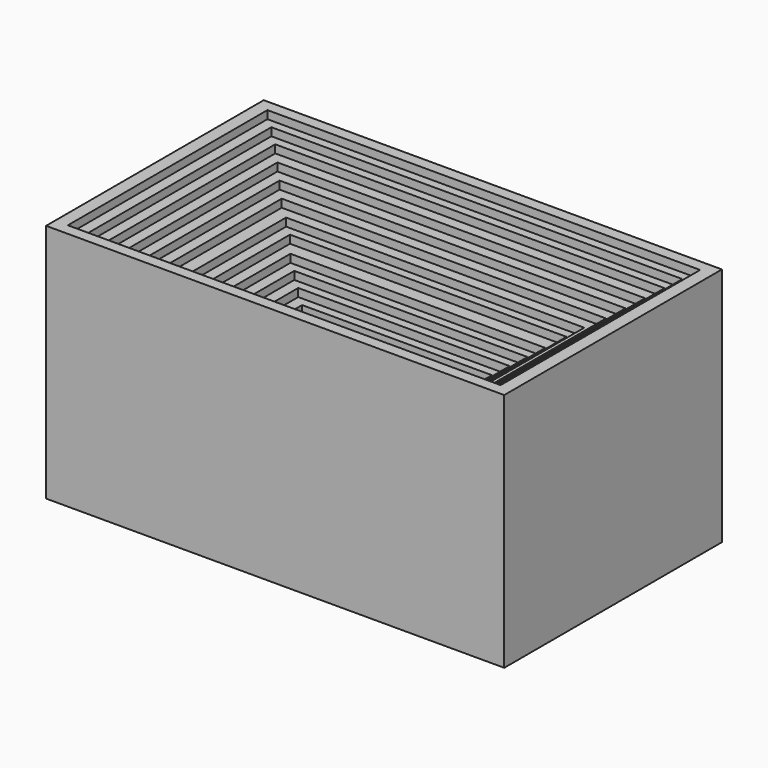
from build123d import *

# Parameters (mm, degrees)
F0_W      = 145.384446
F0_H      = 86.339206
F1_DEPTH  = 76.2
F2_W      = 137.30748
F2_H      = 79.149678
F3_DEPTH  = 2.54
F4_W      = 130.424902
F4_H      = 73.643618
F5_DEPTH  = 2.54
F6_W      = 123.542332
F6_H      = 68.137548
F7_DEPTH  = 2.54
F8_W      = 116.65973
F8_H      = 61.254968
F9_DEPTH  = 2.54
F10_W     = 109.77716
F10_H     = 54.372388
F11_DEPTH = 2.54
F12_W     = 102.894582
F12_H     = 47.489804
F13_DEPTH = 2.54
F14_W     = 94.635486
F14_H     = 40.607226
F15_DEPTH = 2.54
F16_W     = 87.752902
F16_H     = 35.10116
F17_DEPTH = 2.54
F18_W     = 80.870316
F18_H     = 26.842066
F19_DEPTH = 2.54
F20_W     = 73.987744
F20_H     = 21.336002
F21_DEPTH = 2.54
F22_W     = 67.105166
F22_H     = 15.829936
F23_DEPTH = 2.54
F24_W     = 60.222582
F24_H     = 10.32387
F25_DEPTH = 2.54


with BuildPart() as f1:
    # F0 (on Top) → F1 (new body)
    with BuildSketch(Plane.XY):
        Rectangle(F0_W, F0_H)
    extrude(amount=F1_DEPTH)

    # F2 (on face) → F3 (cut)
    with BuildSketch(Plane.XY.offset(76.2)):
        Rectangle(F2_W, F2_H)
    extrude(amount=-F3_DEPTH, mode=Mode.SUBTRACT)

    # F4 (on face) → F5 (cut)
    with BuildSketch(Plane.XY.offset(73.66)):
        Rectangle(F4_W, F4_H)
    extrude(amount=-F5_DEPTH, mode=Mode.SUBTRACT)

    # F6 (on face) → F7 (cut)
    with BuildSketch(Plane.XY.offset(71.12)):
        Rectangle(F6_W, F6_H)
    extrude(amount=-F7_DEPTH, mode=Mode.SUBTRACT)

    # F8 (on face) → F9 (cut)
    with BuildSketch(Plane.XY.offset(68.58)):
        Rectangle(F8_W, F8_H)
    extrude(amount=-F9_DEPTH, mode=Mode.SUBTRACT)

    # F10 (on face) → F11 (cut)
    with BuildSketch(Plane.XY.offset(66.04)):
        Rectangle(F10_W, F10_H)
    extrude(amount=-F11_DEPTH, mode=Mode.SUBTRACT)

    # F12 (on face) → F13 (cut)
    with BuildSketch(Plane.XY.offset(63.5)):
        Rectangle(F12_W, F12_H)
    extrude(amount=-F13_DEPTH, mode=Mode.SUBTRACT)

    # F14 (on face) → F15 (cut)
    with BuildSketch(Plane.XY.offset(60.96)):
        Rectangle(F14_W, F14_H)
    extrude(amount=-F15_DEPTH, mode=Mode.SUBTRACT)

    # F16 (on face) → F17 (cut)
    with BuildSketch(Plane.XY.offset(58.42)):
        Rectangle(F16_W, F16_H)
    extrude(amount=-F17_DEPTH, mode=Mode.SUBTRACT)

    # F18 (on face) → F19 (cut)
    with BuildSketch(Plane.XY.offset(55.88)):
        Rectangle(F18_W, F18_H)
    extrude(amount=-F19_DEPTH, mode=Mode.SUBTRACT)

    # F20 (on face) → F21 (cut)
    with BuildSketch(Plane.XY.offset(53.34)):
        Rectangle(F20_W, F20_H)
    extrude(amount=-F21_DEPTH, mode=Mode.SUBTRACT)

    # F22 (on face) → F23 (cut)
    with BuildSketch(Plane.XY.offset(50.8)):
        Rectangle(F22_W, F22_H)
    extrude(amount=-F23_DEPTH, mode=Mode.SUBTRACT)

    # F24 (on face) → F25 (cut)
    with BuildSketch(Plane.XY.offset(48.26)):
        Rectangle(F24_W, F24_H)
    extrude(amount=-F25_DEPTH, mode=Mode.SUBTRACT)


solid = f1.part
